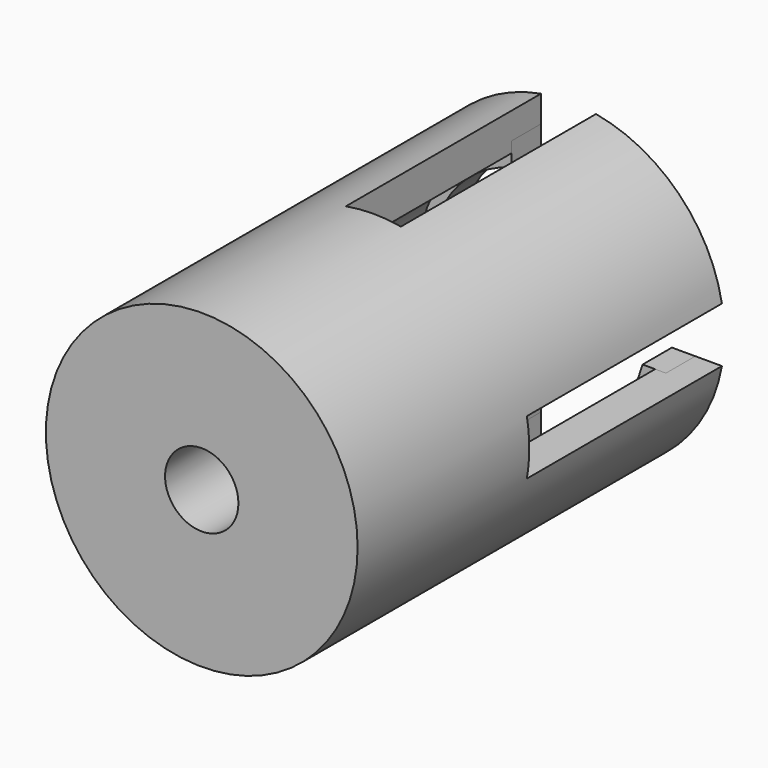
from build123d import *

# Parameters (mm, degrees)
F0_R     = 8.5
F0_R_2   = 6.5
F1_DEPTH = 25
F2_R     = 7.076041
F2_R_2   = 5.836278
F3_DEPTH = 2
F4_W     = 10.774727
F4_H     = 3
F4_W_2   = 3
F4_H_2   = 10.461046
F5_DEPTH = 13.3
F6_R     = 6.5
F6_R_2   = 2
F7_DEPTH = 13.1


with BuildPart() as f1:
    # F0 (on Front) → F1 (new body)
    with BuildSketch(Plane.XZ):
        Circle(F0_R)
        Circle(F0_R_2, mode=Mode.SUBTRACT)
    extrude(amount=F1_DEPTH)


with BuildPart() as f3:
    # F2 (on face) → F3 (new body)
    with BuildSketch(Plane(origin=(0, 0, 0), x_dir=(-1, 0, 0), z_dir=(0, 1, 0))):
        Circle(F2_R)
        Circle(F2_R_2, mode=Mode.SUBTRACT)
    extrude(amount=-F3_DEPTH)


with BuildPart() as f5_tool:
    # F4 (on Front) → F5 (new body)
    with BuildSketch(Plane.XZ):
        with Locations((-6.887363, 0)):
            Rectangle(F4_W, F4_H)
        with Locations((0, 6.730523)):
            Rectangle(F4_W_2, F4_H_2)
        with Locations((6.887363, 0)):
            Rectangle(F4_W, F4_H)
        with Locations((0, -6.730523)):
            Rectangle(F4_W_2, F4_H_2)
    extrude(amount=F5_DEPTH)


with BuildPart() as f1_1:
    add(f1.part)

    # F5: cut by f5_tool
    add(f5_tool.part, mode=Mode.SUBTRACT)

    # F6 (on face) → F7 (join)
    with BuildSketch(Plane.XZ.offset(25)):
        Circle(F6_R)
        Circle(F6_R_2, mode=Mode.SUBTRACT)
    extrude(amount=-F7_DEPTH)


with BuildPart() as f3_1:
    add(f3.part)

    # F5: cut by f5_tool
    add(f5_tool.part, mode=Mode.SUBTRACT)


solid = Compound([f1_1.part, f3_1.part])
